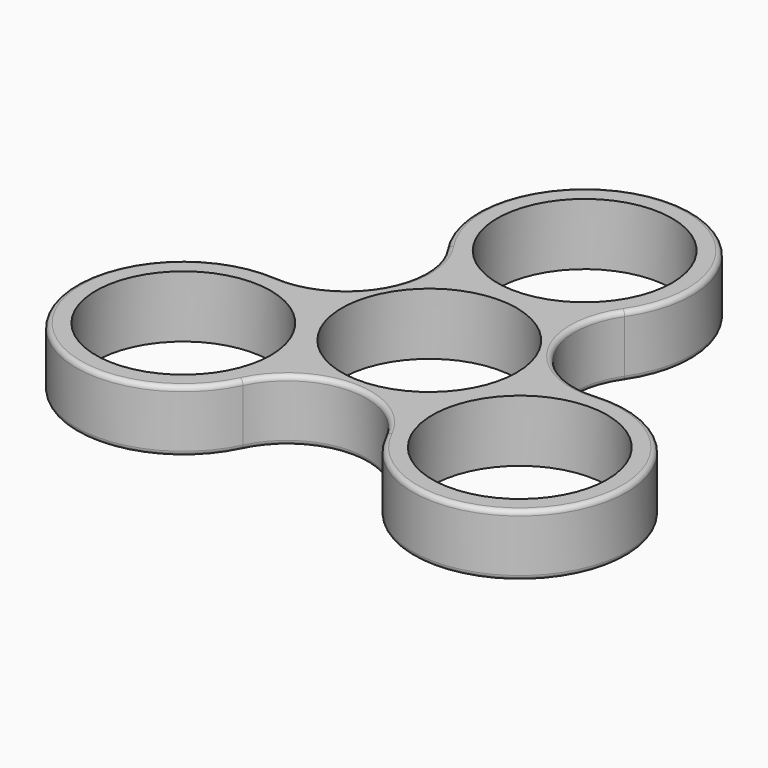
from build123d import *

# Parameters (mm, degrees)
F0_R     = 11.025
F1_DEPTH = 7.8
F2_R     = 0.6


with BuildPart() as f1:
    # F0 (on Top) → F1 (new body)
    with BuildSketch(Plane.XY):
        with BuildLine():
            ThreePointArc((20.177328, 1.234933), (10.747909, 6.205308), (11.158147, 16.856612))
            ThreePointArc((11.158147, 16.856612), (0, 38.025), (-11.158147, 16.856612))
            ThreePointArc((-11.158147, 16.856612), (-10.747909, 6.205308), (-20.177328, 1.234933))
            ThreePointArc((-20.177328, 1.234933), (-32.930616, -19.0125), (-9.019181, -18.091545))
            ThreePointArc((-9.019181, -18.091545), (0, -12.410616), (9.019181, -18.091545))
            ThreePointArc((9.019181, -18.091545), (32.930616, -19.0125), (20.177328, 1.234933))
        make_face()
        with Locations((-21.217622, -12.25)):
            Circle(F0_R, mode=Mode.SUBTRACT)
        Circle(F0_R, mode=Mode.SUBTRACT)
        with Locations((21.217622, -12.25)):
            Circle(F0_R, mode=Mode.SUBTRACT)
        with Locations((0, 24.5)):
            Circle(F0_R, mode=Mode.SUBTRACT)
    extrude(amount=F1_DEPTH)

    # F2
    f2_edges = [f1.edges().sort_by_distance(p)[0] for p in [
        (-32.930616, -19.0125, 0),
        (0, -12.410616, 0),
        (-32.930616, -19.0125, 7.8),
    ]]
    fillet(f2_edges, radius=F2_R)


solid = f1.part
